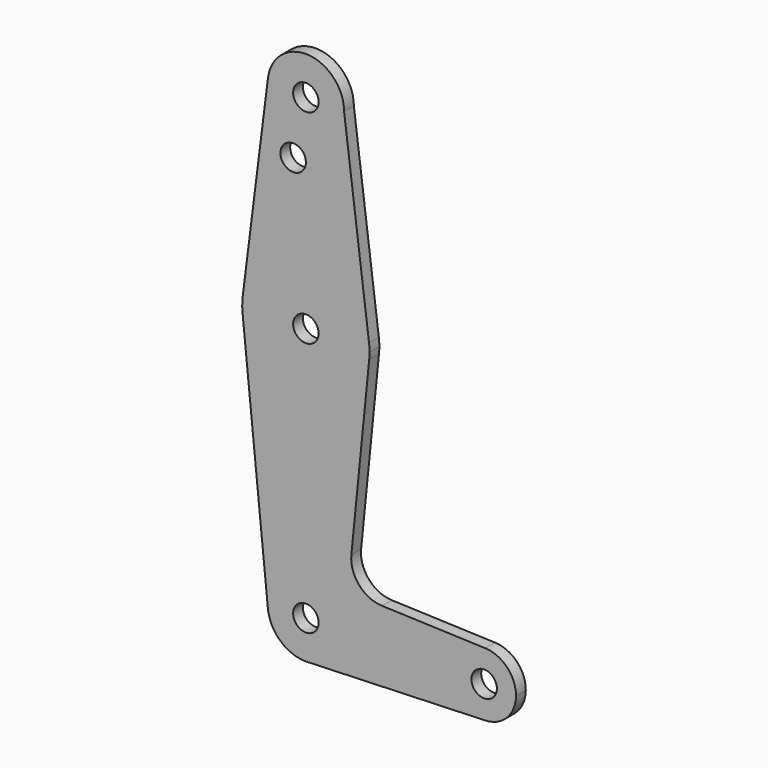
from build123d import *

# Parameters (mm, degrees)
F0_R     = 3.175
F1_DEPTH = 3.048


with BuildPart() as f1:
    # F0 (on Front) → F1 (new body)
    with BuildSketch(Plane.XZ):
        with BuildLine():
            ThreePointArc((-9.450293, 115.490625), (-0.596483, 104.793695), (9.525, 114.3))
            ThreePointArc((9.525, 114.3), (0.596483, 123.806305), (-9.450293, 115.490625))
        make_face()
        with Locations((0, 114.3)):
            Circle(F0_R, mode=Mode.SUBTRACT)
        with BuildLine():
            Line((15.747457, 65.508289), (9.525, 114.3))
            ThreePointArc((9.525, 114.3), (-0.596483, 104.793695), (-9.450293, 115.490625))
            Line((-9.450293, 115.490625), (-15.750488, 65.484375))
            ThreePointArc((-15.750488, 65.484375), (-0.012053, 79.374995), (15.747457, 65.508289))
        make_face()
        with Locations((-3.175, 100.0252)):
            Circle(F0_R, mode=Mode.SUBTRACT)
        with BuildLine():
            ThreePointArc((15.875, 63.5), (15.843082, 64.506168), (15.747457, 65.508289))
            ThreePointArc((15.747457, 65.508289), (-0.012053, 79.374995), (-15.750488, 65.484375))
            ThreePointArc((-15.750488, 65.484375), (-15.873752, 63.699035), (-15.795291, 61.911166))
            ThreePointArc((-15.795291, 61.911166), (0, 47.625), (15.795291, 61.911166))
            ThreePointArc((15.795291, 61.911166), (15.85506, 62.704584), (15.875, 63.5))
        make_face()
        with Locations((0, 63.5)):
            Circle(F0_R, mode=Mode.SUBTRACT)
        with BuildLine():
            ThreePointArc((15.795291, 61.911166), (0, 47.625), (-15.795291, 61.911166))
            Line((-15.795291, 61.911166), (-9.503774, -0.635533))
            ThreePointArc((-9.503774, -0.635533), (-0.317944, 9.519692), (9.525, 0))
            ThreePointArc((9.525, 0), (6.970557, -6.491299), (0.677344, -9.500886))
            Line((0.677344, -9.500886), (44.732405, -7.932475))
            ThreePointArc((44.732405, -7.932475), (36.5125, 0.002194), (44.736791, 7.932317))
            Line((44.736791, 7.932317), (18.961596, 8.864214))
            ThreePointArc((18.961596, 8.864214), (13.2572, 11.583724), (11.338564, 17.604912))
            Line((11.338564, 17.604912), (15.795291, 61.911166))
        make_face()
        with BuildLine():
            Line((-9.439954, -1.27), (-9.503774, -0.635533))
            ThreePointArc((-9.503774, -0.635533), (-9.477175, -0.953301), (-9.439954, -1.27))
        make_face()
        with BuildLine():
            ThreePointArc((9.525, 0), (-0.317944, 9.519692), (-9.503774, -0.635533))
            Line((-9.503774, -0.635533), (-9.439954, -1.27))
            ThreePointArc((-9.439954, -1.27), (-6.270123, -7.17016), (0, -9.525))
            Line((0, -9.525), (0.677344, -9.500886))
            ThreePointArc((0.677344, -9.500886), (6.970557, -6.491299), (9.525, 0))
        make_face()
        Circle(F0_R, mode=Mode.SUBTRACT)
        with BuildLine():
            ThreePointArc((0, -9.525), (0.338886, -9.51897), (0.677344, -9.500886))
            Line((0.677344, -9.500886), (0, -9.525))
        make_face()
        with BuildLine():
            ThreePointArc((52.3875, 0), (50.163156, 5.510331), (44.736791, 7.932317))
            ThreePointArc((44.736791, 7.932317), (36.5125, 0.002194), (44.732405, -7.932475))
            ThreePointArc((44.732405, -7.932475), (50.161633, -5.51191), (52.3875, 0))
        make_face()
        with Locations((44.45, 0)):
            Circle(F0_R, mode=Mode.SUBTRACT)
    extrude(amount=F1_DEPTH)


solid = f1.part
